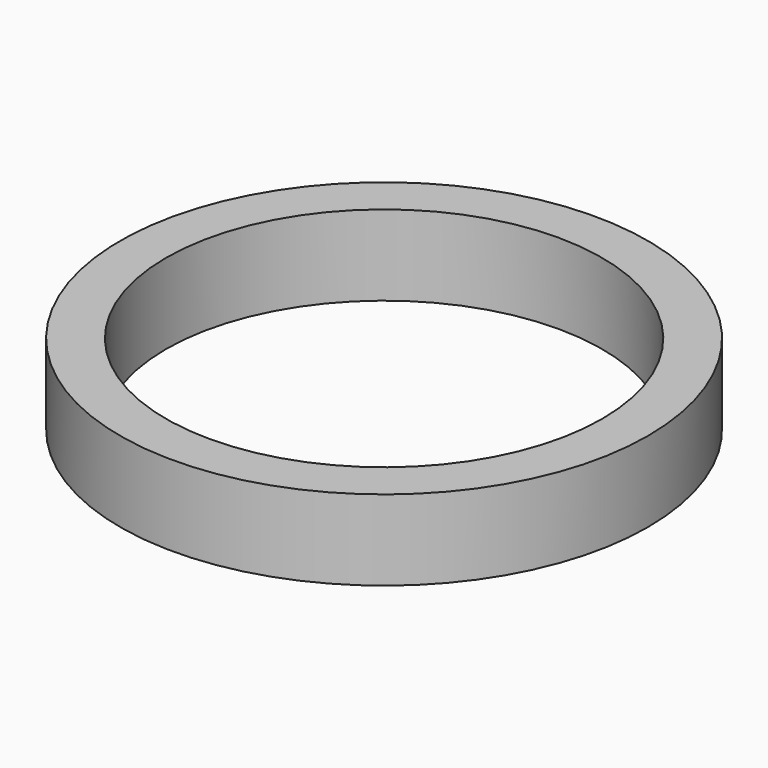
from build123d import *

# Parameters (mm, degrees)
F0_R     = 23
F0_R_2   = 19
F1_DEPTH = 7
F2_R     = 21.5
F2_R_2   = 20.5
F3_DEPTH = 5


with BuildPart() as f1:
    # F0 (on Top) → F1 (new body)
    with BuildSketch(Plane.XY):
        Circle(F0_R)
        Circle(F0_R_2, mode=Mode.SUBTRACT)
    extrude(amount=-F1_DEPTH)

    # F2 (on face) → F3 (cut)
    with BuildSketch(Plane(origin=(0, 0, -7), x_dir=(1, 0, 0), z_dir=(0, 0, -1))):
        Circle(F2_R)
        Circle(F2_R_2, mode=Mode.SUBTRACT)
    extrude(amount=-F3_DEPTH, mode=Mode.SUBTRACT)


solid = f1.part
